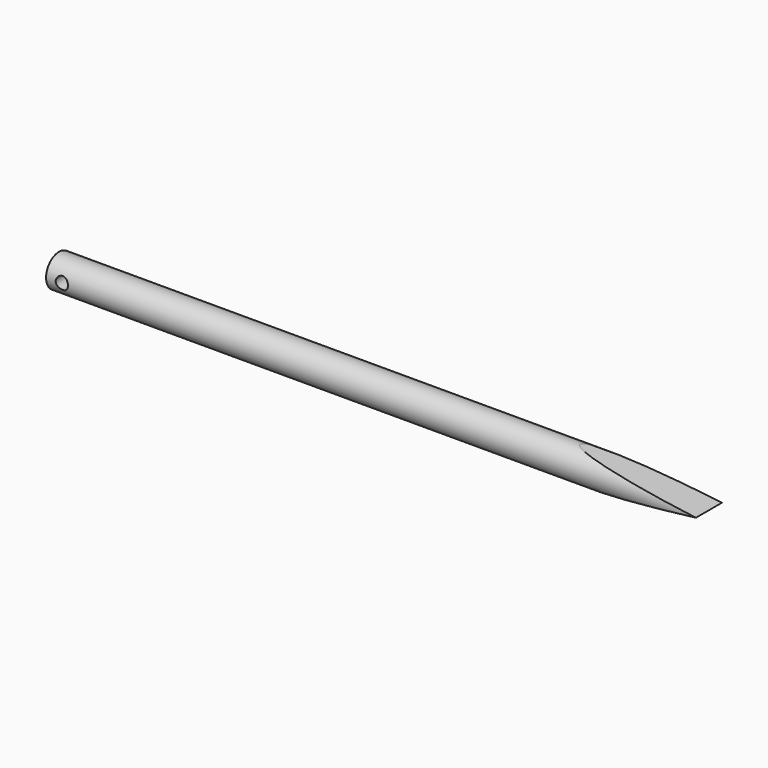
from build123d import *

# Parameters (mm, degrees)
F0_R     = 3.175
F1_DEPTH = 127
F2_R     = 1.1938
F3_DEPTH = 12.7


with BuildPart() as f1:
    # F0 (on Right) → F1 (new body)
    with BuildSketch(Plane.YZ):
        Circle(F0_R)
    extrude(amount=-F1_DEPTH)

    # F2 (on Front) → F3 (cut, symmetric)
    with BuildSketch(Plane.XZ):
        Polygon((-25.200112, 5.158313), (-25.200112, 3.180311), (0, 0), (0, 5.158313), align=None)
        Polygon((0, -5.158313), (0, 0), (-25.200112, -3.180311), (-25.200112, -5.158313), align=None)
        with Locations((-123.920046, 0)):
            Circle(F2_R)
    extrude(amount=F3_DEPTH, both=True, mode=Mode.SUBTRACT)


solid = f1.part
